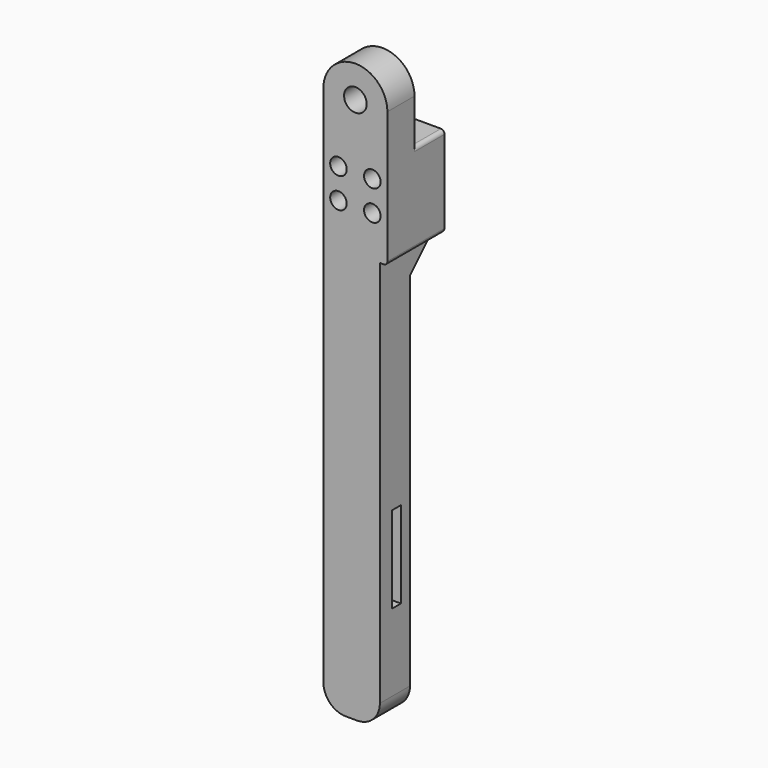
from build123d import *

# Parameters (mm, degrees)
CYLINDER029_R          = 2.2
CYLINDER029_DEPTH      = 26
CYLINDER029_ROLL_ANGLE = -90
ARRAY001_X_COUNT       = 2
ARRAY001_X_PITCH       = 8
ARRAY001_Z_COUNT       = 2
ARRAY001_Z_PITCH       = 9
BOX015_W               = 23
BOX015_H               = 3
BOX015_DEPTH           = 20
BOX011_W               = 130
BOX011_H               = 10
BOX011_DEPTH           = 15
SKETCH003_R            = 3
PAD003_DEPTH           = 9
FILLET003_R            = 1
BOX013_W               = 24
BOX013_H               = 10
BOX013_DEPTH           = 17
FILLET_R               = 1
CHAMFER_SIZE           = 7
FILLET004_R            = 6
FILLET004_PITCH_ANGLE  = 90


with BuildPart() as obj1:
    # Cylinder029 → Cylinder029 (new body)
    with BuildSketch(Plane.XY):
        Circle(CYLINDER029_R)
    extrude(amount=CYLINDER029_DEPTH)


with BuildPart() as obj1_1:
    # Cylinder029 roll: moved
    add(obj1.part.rotate(Axis((0, 0, 0), (1, 0, 0)), CYLINDER029_ROLL_ANGLE))


with BuildPart() as obj1_2:
    # Cylinder029 placement: moved
    add(obj1_1.part.moved(Location((202, 0, 4))))

    # Array001 X: obj1_2


with BuildPart() as obj1_3:
    add(obj1_2.part)
    with Locations(*[(i * ARRAY001_X_PITCH, 0, 0) for i in range(1, ARRAY001_X_COUNT)]):
        add(obj1_2.part)

    # Array001 Z: obj1_2


with BuildPart() as obj1_4:
    add(obj1_3.part)
    with Locations(*[(0, 0, i * ARRAY001_Z_PITCH) for i in range(1, ARRAY001_Z_COUNT)]):
        add(obj1_3.part)


with BuildPart() as obj2:
    # Box015 → Box015 (new body)
    with BuildSketch(Plane(origin=(280.5, 5, 0), x_dir=(1, 0, 0), z_dir=(0, 0, 1))):
        with Locations((11.5, 1.5)):
            Rectangle(BOX015_W, BOX015_H)
    extrude(amount=BOX015_DEPTH)


with BuildPart() as base_tibia:
    # Box011 → Box011 (new body)
    with BuildSketch(Plane(origin=(200, 1.5, 0), x_dir=(1, 0, 0), z_dir=(0, 0, 1))):
        with Locations((65, 5)):
            Rectangle(BOX011_W, BOX011_H)
    extrude(amount=BOX011_DEPTH)


with BuildPart() as obj3:
    # Sketch003 → Pad003 (new body)
    with BuildSketch(Plane(origin=(221, 10.5, 0), x_dir=(1, 0, 0), z_dir=(0, -1, 0))):
        with BuildLine():
            Line((0, 17), (-36, 17))
            ThreePointArc((-36, 17), (-44.500015, 8.5), (-36, 0))
            Line((-36, 0), (0, 0))
            Line((0, 0), (0, 17))
        make_face()
        with Locations((-36.000015, 8.5)):
            Circle(SKETCH003_R, mode=Mode.SUBTRACT)
    extrude(amount=PAD003_DEPTH)

    # Fillet003
    fillet003_edges = [obj3.edges().sort_by_distance(p)[0] for p in [
        (221, 6, 17),
        (221, 6, 0),
    ]]
    fillet(fillet003_edges, radius=FILLET003_R)

    # Fusion008: union Base_tibia
    add(base_tibia.part)


with BuildPart() as obj3_1:
    # Fusion008 placement: moved
    add(obj3.part.moved(Location((0, -0.5, 0))))

    # Cut010: cut obj2
    add(obj2.part, mode=Mode.SUBTRACT)


with BuildPart() as obj4:
    # Box013 → Box013 (new body)
    with BuildSketch(Plane(origin=(197, 10, 0), x_dir=(1, 0, 0), z_dir=(0, 0, 1))):
        with Locations((12, 5)):
            Rectangle(BOX013_W, BOX013_H)
    extrude(amount=BOX013_DEPTH)

    # Fillet
    fillet_edges = [obj4.edges().sort_by_distance(p)[0] for p in [
        (197, 15, 17),
        (197, 15, 0),
        (221, 15, 17),
        (221, 20, 8.5),
    ]]
    fillet(fillet_edges, radius=FILLET_R)

    # Fusion009003008: union obj3
    add(obj3_1.part)

    # Chamfer
    chamfer_edges = [obj4.edges().sort_by_distance(p)[0] for p in [
        (221, 11, 7.5),
    ]]
    chamfer(chamfer_edges, length=CHAMFER_SIZE)

    # Cut011: cut obj1
    add(obj1_4.part, mode=Mode.SUBTRACT)

    # Fillet004
    fillet004_edges = [obj4.edges().sort_by_distance(p)[0] for p in [
        (330, 6, 0),
        (330, 6, 15),
    ]]
    fillet(fillet004_edges, radius=FILLET004_R)


with BuildPart() as obj4_1:
    # Fillet004 pitch: moved
    add(obj4.part.rotate(Axis((0, 0, 0), (0, 1, 0)), FILLET004_PITCH_ANGLE))


with BuildPart() as obj4_2:
    # Fillet004 placement: moved
    add(obj4_1.part.moved(Location((359, 67, 326))))


solid = obj4_2.part
